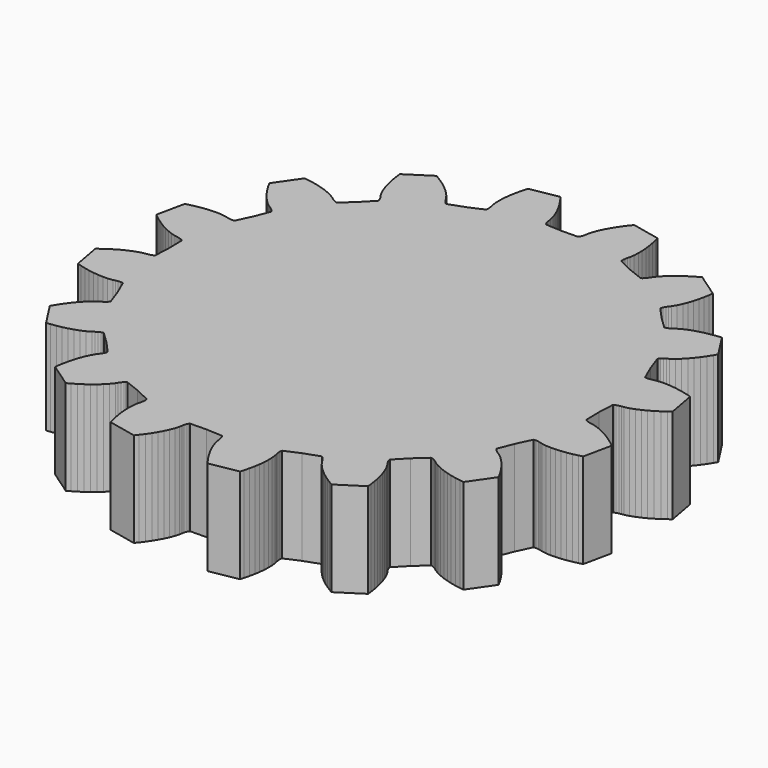
from build123d import *

# Parameters (mm, degrees)
F1_DEPTH = 20


with BuildPart() as f1:
    # F0 (on Top) → F1 (new body)
    with BuildSketch(Plane.XY):
        Polygon((45.987485, -4.151875), (45.923915, -0.721435), (46.095205, 2.705325), (46.331095, 2.863105), (46.569625, 2.973035), (47.051015, 3.119655), (47.536215, 3.206395), (48.022965, 3.269355), (48.988355, 3.509795), (49.945735, 3.847765), (50.895555, 4.260005), (51.837385, 4.736555), (52.770475, 5.271595), (53.693965, 5.861235), (54.606915, 6.502665), (55.284115, 7.016395), (54.195315, 12.978095), (53.380245, 13.219295), (52.299505, 13.496605), (51.227205, 13.721745), (50.165225, 13.892415), (49.115755, 14.005295), (48.081525, 14.055185), (47.066495, 14.032935), (46.078435, 13.916605), (45.600845, 13.803445), (45.116315, 13.713085), (44.614175, 13.680075), (44.352185, 13.698595), (44.075755, 13.762815), (42.704245, 16.907805), (41.551135, 20.139265), (41.708685, 20.375315), (41.886985, 20.568155), (42.275635, 20.887835), (42.690695, 21.153645), (43.116305, 21.398085), (43.916205, 21.989665), (44.671365, 22.668275), (45.391125, 23.412625), (46.078895, 24.213315), (46.736205, 25.064705), (47.363755, 25.962875), (47.961755, 26.904835), (48.390805, 27.638615), (45.103435, 32.729845), (44.258105, 32.640765), (43.153515, 32.483385), (42.076675, 32.281045), (41.030225, 32.032325), (40.017445, 31.734985), (39.042855, 31.385305), (38.113595, 30.976305), (37.245265, 30.490725), (36.847345, 30.203405), (36.434275, 29.934505), (35.982985, 29.711845), (35.733855, 29.628695), (35.453885, 29.582245), (32.983235, 31.962985), (30.681275, 34.507185), (30.736505, 34.785555), (30.827435, 35.031955), (31.064165, 35.476025), (31.345905, 35.880445), (31.645575, 36.269155), (32.158195, 37.121805), (32.596185, 38.037755), (32.976305, 39.000875), (33.305305, 40.003815), (33.586775, 41.041945), (33.822845, 42.111895), (34.014845, 43.210995), (34.130425, 44.053115), (29.144975, 47.498775), (28.398075, 47.092985), (27.437795, 46.524875), (26.520365, 45.925845), (25.648745, 45.295595), (24.826835, 44.633315), (24.060255, 43.937295), (23.358255, 43.203815), (22.741845, 42.422905), (22.484155, 42.005175), (22.205435, 41.598665), (21.873705, 41.220255), (21.675365, 41.048105), (21.434485, 40.898045), (18.240835, 42.152085), (15.140475, 43.621705), (15.084965, 43.900015), (15.074685, 44.162455), (15.123455, 44.663315), (15.228985, 45.144775), (15.357095, 45.618565), (15.504405, 46.602485), (15.558525, 47.616315), (15.541145, 48.651595), (15.461295, 49.704095), (15.324055, 50.770915), (15.132705, 51.849755), (14.889485, 52.938675), (14.674005, 53.760915), (8.749445, 55.036445), (8.214695, 54.375715), (7.544915, 53.483365), (6.926555, 52.578855), (6.362475, 51.663025), (5.856575, 50.736635), (5.414705, 49.800225), (5.046825, 48.853945), (4.776185, 47.896585), (4.697965, 47.412045), (4.596025, 46.929815), (4.434355, 46.453255), (4.316995, 46.218305), (4.151875, 45.987485), (0.721425, 45.923915), (-2.705325, 46.095205), (-2.863115, 46.331095), (-2.973045, 46.569625), (-3.119665, 47.051015), (-3.206405, 47.536215), (-3.269365, 48.022965), (-3.509805, 48.988355), (-3.847775, 49.945735), (-4.260015, 50.895555), (-4.736565, 51.837385), (-5.271605, 52.770475), (-5.861245, 53.693965), (-6.502665, 54.606915), (-7.016405, 55.284115), (-12.978105, 54.195315), (-13.219295, 53.380245), (-13.496605, 52.299505), (-13.721755, 51.227205), (-13.892425, 50.165225), (-14.005295, 49.115755), (-14.055195, 48.081525), (-14.032935, 47.066495), (-13.916615, 46.078435), (-13.803445, 45.600845), (-13.713085, 45.116315), (-13.680075, 44.614175), (-13.698595, 44.352185), (-13.762825, 44.075755), (-16.907805, 42.704245), (-20.139275, 41.551135), (-20.375315, 41.708685), (-20.568165, 41.886985), (-20.887845, 42.275635), (-21.153655, 42.690695), (-21.398095, 43.116305), (-21.989665, 43.916205), (-22.668285, 44.671365), (-23.412625, 45.391125), (-24.213325, 46.078895), (-25.064715, 46.736205), (-25.962875, 47.363755), (-26.904845, 47.961755), (-27.638625, 48.390805), (-32.729855, 45.103435), (-32.640775, 44.258105), (-32.483395, 43.153515), (-32.281045, 42.076675), (-32.032325, 41.030225), (-31.734995, 40.017445), (-31.385305, 39.042855), (-30.976315, 38.113595), (-30.490725, 37.245265), (-30.203415, 36.847345), (-29.934505, 36.434275), (-29.711855, 35.982985), (-29.628705, 35.733855), (-29.582245, 35.453885), (-31.962985, 32.983235), (-34.507195, 30.681275), (-34.785565, 30.736505), (-35.031965, 30.827435), (-35.476035, 31.064165), (-35.880455, 31.345905), (-36.269165, 31.645575), (-37.121805, 32.158195), (-38.037755, 32.596185), (-39.000885, 32.976305), (-40.003825, 33.305305), (-41.041955, 33.586775), (-42.111895, 33.822845), (-43.211005, 34.014845), (-44.053115, 34.130425), (-47.498775, 29.144975), (-47.092995, 28.398075), (-46.524885, 27.437795), (-45.925845, 26.520365), (-45.295605, 25.648745), (-44.633325, 24.826835), (-43.937295, 24.060255), (-43.203825, 23.358255), (-42.422905, 22.741845), (-42.005185, 22.484155), (-41.598675, 22.205435), (-41.220265, 21.873705), (-41.048105, 21.675365), (-40.898055, 21.434485), (-42.152085, 18.240835), (-43.621705, 15.140475), (-43.900025, 15.084965), (-44.162465, 15.074685), (-44.663325, 15.123455), (-45.144775, 15.228985), (-45.618575, 15.357095), (-46.602485, 15.504405), (-47.616325, 15.558525), (-48.651605, 15.541145), (-49.704105, 15.461295), (-50.770925, 15.324055), (-51.849765, 15.132705), (-52.938685, 14.889485), (-53.760925, 14.674005), (-55.036445, 8.749445), (-54.375725, 8.214695), (-53.483375, 7.544915), (-52.578855, 6.926555), (-51.663025, 6.362475), (-50.736635, 5.856575), (-49.800235, 5.414705), (-48.853945, 5.046825), (-47.896585, 4.776185), (-47.412045, 4.697965), (-46.929815, 4.596025), (-46.453265, 4.434355), (-46.218305, 4.316995), (-45.987495, 4.151875), (-45.923915, 0.721425), (-46.095215, -2.705325), (-46.331105, -2.863115), (-46.569635, -2.973045), (-47.051025, -3.119665), (-47.536215, -3.206405), (-48.022975, -3.269365), (-48.988365, -3.509805), (-49.945745, -3.847775), (-50.895565, -4.260015), (-51.837385, -4.736565), (-52.770485, -5.271605), (-53.693975, -5.861245), (-54.606925, -6.502665), (-55.284115, -7.016405), (-54.195325, -12.978105), (-53.380255, -13.219295), (-52.299515, -13.496605), (-51.227205, -13.721755), (-50.165225, -13.892425), (-49.115755, -14.005295), (-48.081535, -14.055195), (-47.066495, -14.032935), (-46.078445, -13.916615), (-45.600855, -13.803445), (-45.116325, -13.713085), (-44.614175, -13.680075), (-44.352195, -13.698595), (-44.075755, -13.762825), (-42.704245, -16.907805), (-41.551145, -20.139275), (-41.708695, -20.375315), (-41.886995, -20.568165), (-42.275635, -20.887845), (-42.690705, -21.153655), (-43.116315, -21.398095), (-43.916205, -21.989665), (-44.671365, -22.668285), (-45.391135, -23.412625), (-46.078895, -24.213325), (-46.736215, -25.064715), (-47.363765, -25.962875), (-47.961755, -26.904845), (-48.390805, -27.638625), (-45.103445, -32.729855), (-44.258115, -32.640775), (-43.153525, -32.483395), (-42.076685, -32.281045), (-41.030225, -32.032325), (-40.017445, -31.734995), (-39.042855, -31.385305), (-38.113605, -30.976315), (-37.245275, -30.490725), (-36.847345, -30.203415), (-36.434275, -29.934505), (-35.982985, -29.711855), (-35.733855, -29.628705), (-35.453885, -29.582245), (-32.983245, -31.962985), (-30.681285, -34.507195), (-30.736515, -34.785565), (-30.827445, -35.031965), (-31.064165, -35.476035), (-31.345915, -35.880455), (-31.645585, -36.269165), (-32.158205, -37.121805), (-32.596185, -38.037755), (-32.976315, -39.000885), (-33.305315, -40.003825), (-33.586785, -41.041955), (-33.822855, -42.111895), (-34.014845, -43.211005), (-34.130435, -44.053115), (-29.144975, -47.498775), (-28.398085, -47.092995), (-27.437795, -46.524885), (-26.520365, -45.925845), (-25.648745, -45.295605), (-24.826845, -44.633325), (-24.060265, -43.937295), (-23.358255, -43.203825), (-22.741855, -42.422905), (-22.484165, -42.005185), (-22.205445, -41.598675), (-21.873715, -41.220265), (-21.675365, -41.048105), (-21.434485, -40.898055), (-18.240835, -42.152085), (-15.140485, -43.621705), (-15.084975, -43.900025), (-15.074695, -44.162465), (-15.123455, -44.663325), (-15.228995, -45.144775), (-15.357105, -45.618575), (-15.504405, -46.602485), (-15.558535, -47.616325), (-15.541155, -48.651605), (-15.461295, -49.704105), (-15.324065, -50.770925), (-15.132715, -51.849765), (-14.889485, -52.938685), (-14.674015, -53.760925), (-8.749455, -55.036445), (-8.214705, -54.375725), (-7.544925, -53.483375), (-6.926565, -52.578855), (-6.362475, -51.663025), (-5.856585, -50.736635), (-5.414705, -49.800235), (-5.046825, -48.853945), (-4.776185, -47.896585), (-4.697975, -47.412045), (-4.596035, -46.929815), (-4.434365, -46.453265), (-4.316995, -46.218305), (-4.151875, -45.987495), (-0.721435, -45.923915), (2.705325, -46.095215), (2.863105, -46.331105), (2.973035, -46.569635), (3.119655, -47.051025), (3.206395, -47.536215), (3.269355, -48.022975), (3.509795, -48.988365), (3.847765, -49.945745), (4.260005, -50.895565), (4.736555, -51.837385), (5.271595, -52.770485), (5.861235, -53.693975), (6.502665, -54.606925), (7.016395, -55.284115), (12.978095, -54.195325), (13.219295, -53.380255), (13.496605, -52.299515), (13.721745, -51.227205), (13.892415, -50.165225), (14.005295, -49.115755), (14.055185, -48.081535), (14.032935, -47.066495), (13.916605, -46.078445), (13.803445, -45.600855), (13.713085, -45.116325), (13.680075, -44.614175), (13.698595, -44.352195), (13.762815, -44.075755), (16.907805, -42.704245), (20.139265, -41.551145), (20.375315, -41.708695), (20.568155, -41.886995), (20.887835, -42.275635), (21.153645, -42.690705), (21.398085, -43.116315), (21.989665, -43.916205), (22.668275, -44.671365), (23.412625, -45.391135), (24.213315, -46.078895), (25.064705, -46.736215), (25.962875, -47.363765), (26.904835, -47.961755), (27.638615, -48.390805), (32.729845, -45.103445), (32.640765, -44.258115), (32.483385, -43.153525), (32.281045, -42.076685), (32.032325, -41.030225), (31.734985, -40.017445), (31.385305, -39.042855), (30.976305, -38.113605), (30.490725, -37.245275), (30.203405, -36.847345), (29.934505, -36.434275), (29.711845, -35.982985), (29.628695, -35.733855), (29.582245, -35.453885), (31.962985, -32.983245), (34.507185, -30.681285), (34.785555, -30.736515), (35.031955, -30.827445), (35.476025, -31.064165), (35.880445, -31.345915), (36.269155, -31.645585), (37.121805, -32.158205), (38.037755, -32.596185), (39.000875, -32.976315), (40.003815, -33.305315), (41.041945, -33.586785), (42.111895, -33.822855), (43.210995, -34.014845), (44.053115, -34.130435), (47.498775, -29.144975), (47.092985, -28.398085), (46.524875, -27.437795), (45.925845, -26.520365), (45.295595, -25.648745), (44.633315, -24.826845), (43.937295, -24.060265), (43.203815, -23.358255), (42.422905, -22.741855), (42.005175, -22.484165), (41.598665, -22.205445), (41.220255, -21.873715), (41.048105, -21.675365), (40.898045, -21.434485), (42.152085, -18.240835), (43.621705, -15.140485), (43.900015, -15.084975), (44.162455, -15.074695), (44.663315, -15.123455), (45.144775, -15.228995), (45.618565, -15.357105), (46.602485, -15.504405), (47.616315, -15.558535), (48.651595, -15.541155), (49.704095, -15.461295), (50.770915, -15.324065), (51.849755, -15.132715), (52.938675, -14.889485), (53.760915, -14.674015), (55.036445, -8.749455), (54.375715, -8.214705), (53.483365, -7.544925), (52.578855, -6.926565), (51.663025, -6.362475), (50.736635, -5.856585), (49.800225, -5.414705), (48.853945, -5.046825), (47.896585, -4.776185), (47.412045, -4.697975), (46.929815, -4.596035), (46.453255, -4.434365), (46.218305, -4.316995), align=None)
    extrude(amount=F1_DEPTH)


solid = f1.part
